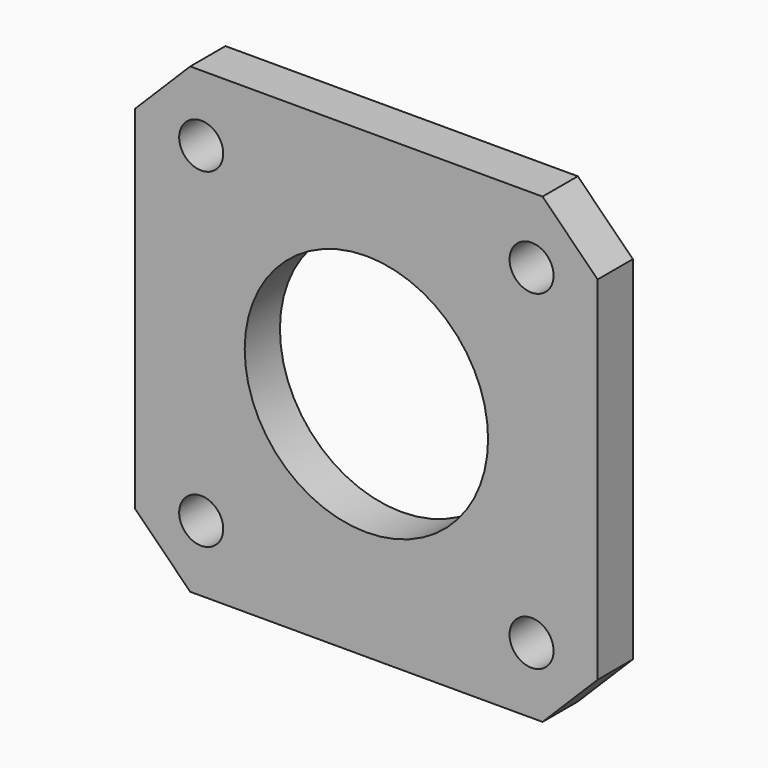
from build123d import *

# Parameters (mm, degrees)
F0_W     = 42
F0_H     = 42
F0_R     = 2
F0_R_2   = 11.05
F1_DEPTH = 4
F2_SIZE  = 5
F3_SIZE  = 5
F4_SIZE  = 5
F5_SIZE  = 5


with BuildPart() as f1:
    # F0 (on Front) → F1 (new body)
    with BuildSketch(Plane.XZ):
        Rectangle(F0_W, F0_H)
        with Locations((-15, -15)):
            Circle(F0_R, mode=Mode.SUBTRACT)
        with Locations((15, -15)):
            Circle(F0_R, mode=Mode.SUBTRACT)
        with Locations((-15, 15)):
            Circle(F0_R, mode=Mode.SUBTRACT)
        Circle(F0_R_2, mode=Mode.SUBTRACT)
        with Locations((15, 15)):
            Circle(F0_R, mode=Mode.SUBTRACT)
    extrude(amount=F1_DEPTH)

    # F2
    f2_edges = [f1.edges().sort_by_distance(p)[0] for p in [
        (-21, -2, -21),
    ]]
    chamfer(f2_edges, length=F2_SIZE)

    # F3
    f3_edges = [f1.edges().sort_by_distance(p)[0] for p in [
        (-21, -2, 21),
    ]]
    chamfer(f3_edges, length=F3_SIZE)

    # F4
    f4_edges = [f1.edges().sort_by_distance(p)[0] for p in [
        (21, -2, 21),
    ]]
    chamfer(f4_edges, length=F4_SIZE)

    # F5
    f5_edges = [f1.edges().sort_by_distance(p)[0] for p in [
        (21, -2, -21),
    ]]
    chamfer(f5_edges, length=F5_SIZE)


solid = f1.part
